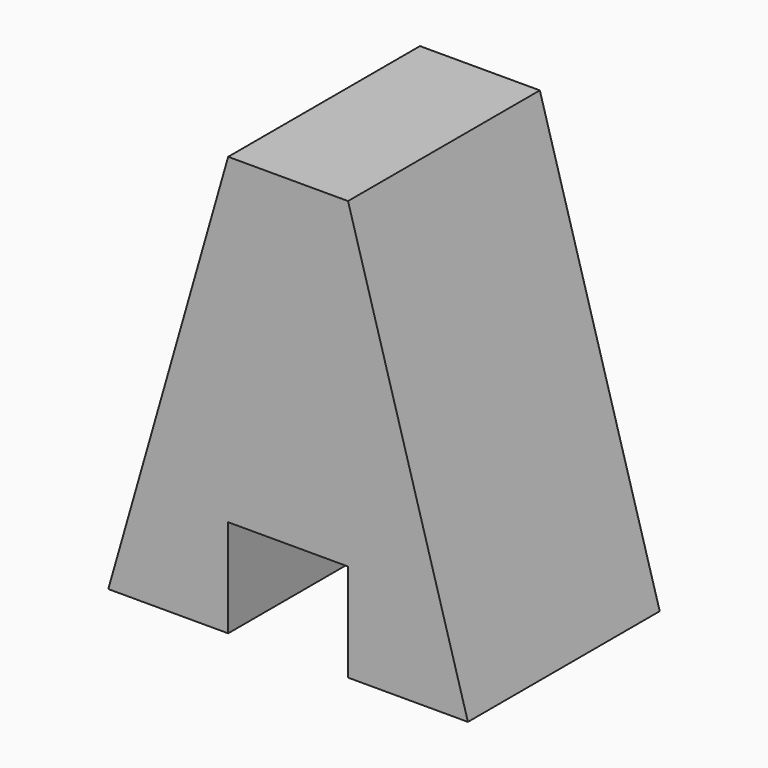
from build123d import *

# Parameters (mm, degrees)
F0_W     = 38.1
F0_H     = 44.45
F1_DEPTH = 25.4
F2_W     = 12.7
F2_H     = 10.368286
F3_DEPTH = 25.401
F5_DEPTH = 25.401


with BuildPart() as f1:
    # F0 (on Front) → F1 (new body)
    with BuildSketch(Plane.XZ):
        with Locations((-48.974418, 32.146238)):
            Rectangle(F0_W, F0_H)
    extrude(amount=F1_DEPTH)

    # F2 (on face) → F3 (cut, through all)
    with BuildSketch(Plane.XZ.offset(25.4)):
        with Locations((-48.974418, 15.105381)):
            Rectangle(F2_W, F2_H)
    extrude(amount=-F3_DEPTH, mode=Mode.SUBTRACT)

    # F4 (on face) → F5 (cut, through all)
    with BuildSketch(Plane.XZ.offset(25.4)):
        Polygon((-68.024418, 54.371238), (-68.024418, 9.921238), (-55.324418, 54.371238), align=None)
        Polygon((-29.924418, 54.371238), (-42.624418, 54.371238), (-29.924418, 9.921238), align=None)
    extrude(amount=-F5_DEPTH, mode=Mode.SUBTRACT)


solid = f1.part
